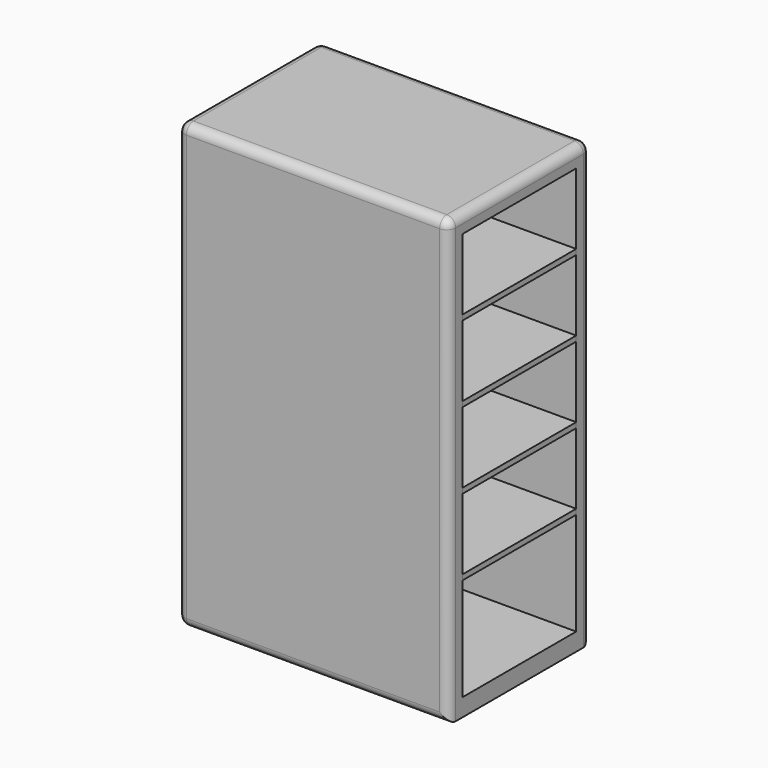
from build123d import *

# Parameters (mm, degrees)
F0_W     = 38.813483
F0_H     = 12.7
F1_DEPTH = 25.4
F2_T     = -2.54
F3_W     = 20.32
F3_H     = 0.762
F4_DEPTH = 36.273483
F5_R     = 1.27


with BuildPart() as f1:
    # F0 (on Front) → F1 (new body)
    with BuildSketch(Plane.XZ):
        with Locations((-30.246963, -2.339205)):
            Rectangle(F0_W, F0_H)
        with Locations((-30.246963, 35.760795)):
            Rectangle(F0_W, F0_H)
        with Locations((-30.246963, 23.060795)):
            Rectangle(F0_W, F0_H)
        with Locations((-30.246963, 10.360795)):
            Rectangle(F0_W, F0_H)
        with Locations((-30.246963, -15.039205)):
            Rectangle(F0_W, F0_H)
    extrude(amount=F1_DEPTH)

    # F2
    f2_openings = [f1.faces().sort_by_distance(p)[0] for p in [
        (-10.840222, -12.7, 10.360795),
    ]]
    offset(amount=F2_T, openings=f2_openings)

    # F3 (on face) → F4 (join, through all)
    with BuildSketch(Plane.YZ.offset(-47.113705)):
        with Locations((-12.7, 29.029795)):
            Rectangle(F3_W, F3_H)
        with Locations((-12.7, 18.107795)):
            Rectangle(F3_W, F3_H)
        with Locations((-12.7, 7.185795)):
            Rectangle(F3_W, F3_H)
        with Locations((-12.7, -3.736205)):
            Rectangle(F3_W, F3_H)
    extrude(amount=F4_DEPTH)

    # F5
    f5_edges = [f1.edges().sort_by_distance(p)[0] for p in [
        (-30.246964, -25.4, 42.110795),
        (-49.653705, -25.4, 10.360795),
        (-30.246964, -25.4, -21.389205),
        (-10.840222, -25.4, 10.360795),
        (-49.653705, -12.7, 42.110795),
        (-49.653705, -12.7, -21.389205),
        (-49.653705, 0, 10.360795),
        (-10.840222, 0, 10.360795),
        (-30.246964, 0, 42.110795),
        (-30.246964, 0, -21.389205),
        (-10.840222, -12.7, 42.110795),
    ]]
    fillet(f5_edges, radius=F5_R)


solid = f1.part
